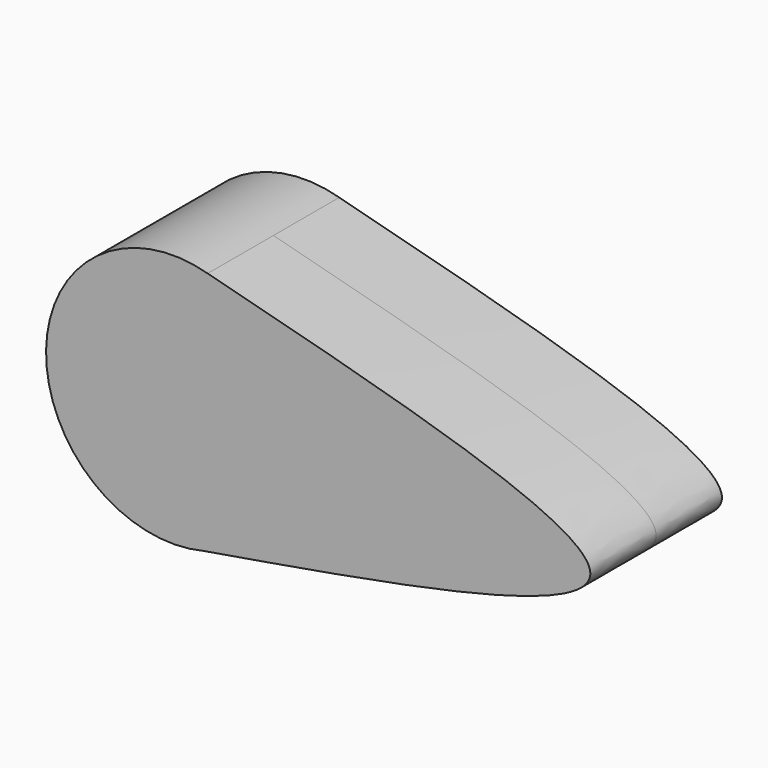
from build123d import *

# Parameters (mm, degrees)
F1_DEPTH = 19.05


with BuildPart() as f1:
    # F0 (on Front) → F1 (new body, symmetric)
    with BuildSketch(Plane.XZ):
        with BuildLine():
            add(Edge.make_bspline(
                [(-63.8028904796, 56.8635463715), (-19.2991059975, 45.3668759264), (69.3323921462, 22.4706854771), (-20.1700160927, 7.4690107077), (-64.7313371301, 0)],
                knots=[0, 0, 0, 0, 0.5021215416, 1, 1, 1, 1], degree=3))
            ThreePointArc((-63.8028904796, 56.8635463715), (-101.2107629612, 29.0349752283), (-64.7313371301, 0))
        make_face()
    extrude(amount=F1_DEPTH, both=True)


solid = f1.part
